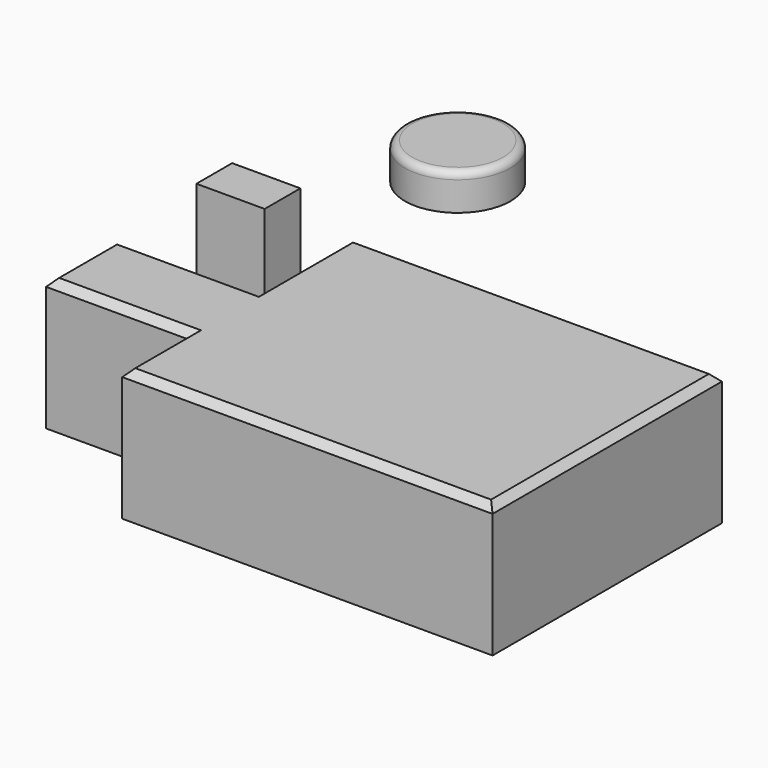
from build123d import *

# Parameters (mm, degrees)
F0_W     = 47.685325
F0_H     = 31.179237
F1_DEPTH = 25.4
F0_W_2   = 99.086285
F0_H_2   = 60.73128
F2_DEPTH = 92.202
F3_R     = 36.856074
F4_DEPTH = 25.4
F5_R     = 5.08
F6_SIZE  = 5.08


with BuildPart() as f1:
    # F0 (on Top) → F1 (new body)
    with BuildSketch(Plane.XY):
        with Locations((-165.16766, 24.055476)):
            Rectangle(F0_W, F0_H)
    extrude(amount=F1_DEPTH)

    # F0 (on Top) → F2 (join)
    with BuildSketch(Plane.XY):
        Polygon((144.291982, 50.812375), (-114.464357, 50.812375), (-114.464357, -31.447981), (-114.464357, -92.179261), (-114.464357, -149.520412), (144.291982, -149.520412), align=None)
        with Locations((-164.007499, -61.813621)):
            Rectangle(F0_W_2, F0_H_2)
        with Locations((-165.16766, 24.055476)):
            Rectangle(F0_W, F0_H)
    extrude(amount=-F2_DEPTH)

    # F6
    f6_edges = [f1.edges().sort_by_distance(p)[0] for p in [
        (14.913812, 50.812375, 0),
        (-114.464357, 9.682197, 0),
        (-164.0075, -31.447981, 0),
        (-213.550642, -61.813621, 0),
        (-164.0075, -92.179261, 0),
        (-114.464357, -120.849837, 0),
        (14.913812, -149.520412, 0),
        (144.291982, -49.354019, 0),
    ]]
    chamfer(f6_edges, length=F6_SIZE)


with BuildPart() as f4:
    # F3 (on Top) → F4 (new body)
    with BuildSketch(Plane.XY):
        with Locations((-109.681778, 137.501329)):
            Circle(F3_R)
    extrude(amount=F4_DEPTH)

    # F5
    f5_edges = [f4.edges().sort_by_distance(p)[0] for p in [
        (-146.537851, 137.501329, 25.4),
    ]]
    fillet(f5_edges, radius=F5_R)


solid = Compound([f1.part, f4.part])
